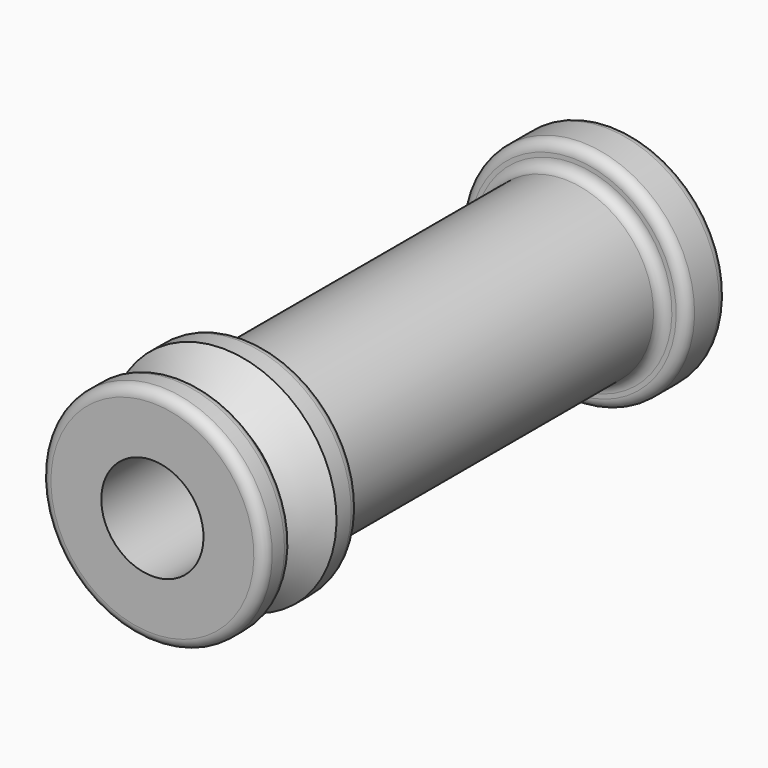
from build123d import *


with BuildPart() as f1:
    # F0 (on Right) → F1 (revolve)
    with BuildSketch(Plane.YZ):
        with BuildLine():
            Line((-45.974173, 19.856825), (-45.974173, 10))
            Line((-45.974173, 10), (7.025827, 10))
            Line((7.025827, 10), (7.025827, 0))
            Line((7.025827, 0), (66.839572, 0))
            Line((66.839572, 0), (66.839572, 20.253024))
            ThreePointArc((66.839572, 20.253024), (66.253786, 21.667238), (64.839572, 22.253024))
            Line((64.839572, 22.253024), (58.839572, 22.253024))
            ThreePointArc((58.839572, 22.253024), (57.425359, 21.667238), (56.839572, 20.253024))
            Line((56.839572, 20.253024), (56.839572, 19.411995))
            ThreePointArc((56.839572, 19.411995), (56.253786, 17.997781), (54.839572, 17.411995))
            Line((54.839572, 17.411995), (-21.160428, 17.411995))
            ThreePointArc((-21.160428, 17.411995), (-22.574641, 17.997781), (-23.160428, 19.411995))
            Line((-23.160428, 19.411995), (-23.160428, 20.253024))
            ThreePointArc((-23.160428, 20.253024), (-23.746214, 21.667238), (-25.160428, 22.253024))
            Line((-25.160428, 22.253024), (-28.746232, 22.253024))
            Line((-28.746232, 22.253024), (-34.70733, 16.291926))
            Line((-34.70733, 16.291926), (-36.974173, 16.291926))
            ThreePointArc((-36.974173, 16.291926), (-38.388387, 16.877712), (-38.974173, 18.291926))
            Line((-38.974173, 18.291926), (-38.974173, 19.856825))
            ThreePointArc((-38.974173, 19.856825), (-39.55996, 21.271038), (-40.974173, 21.856825))
            Line((-40.974173, 21.856825), (-43.974173, 21.856825))
            ThreePointArc((-43.974173, 21.856825), (-45.388387, 21.271038), (-45.974173, 19.856825))
        make_face()
    revolve(axis=Axis((0, 34.685813, 0), (0, 1, 0)))


solid = f1.part
